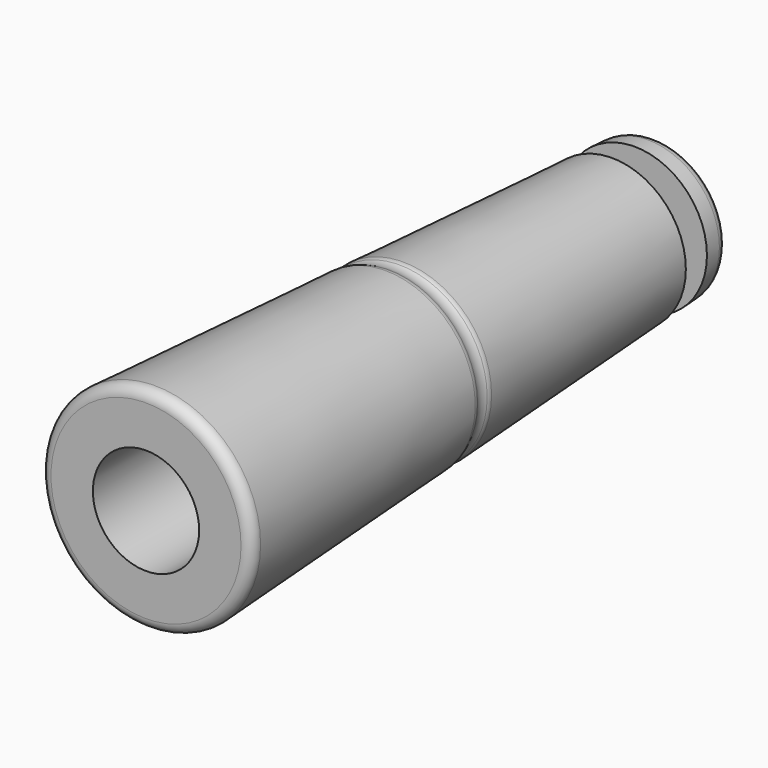
from build123d import *

# Parameters (mm, degrees)
F2_R     = 7.5
F3_DEPTH = 25


with BuildPart() as f1:
    # F0 (on Top) → F1 (revolve)
    with BuildSketch(Plane.XY):
        with BuildLine():
            Line((1.08102, 45), (-7.5, 45))
            Line((-7.5, 45), (-7.5, -45))
            Line((-7.5, -45), (5.914354, -45))
            ThreePointArc((5.914354, -45), (7.004034, -44.530823), (7.412044, -43.416795))
            Line((7.412044, -43.416795), (5.151078, -2.719401))
            ThreePointArc((5.151078, -2.719401), (5.097218, -2.395969), (4.974369, -2.091967))
            ThreePointArc((4.974369, -2.091967), (4.720026, -1.188882), (4.87277, -0.26318))
            ThreePointArc((4.87277, -0.26318), (4.961189, 0.052559), (4.978891, 0.379966))
            Line((4.978891, 0.379966), (2.932232, 37.219816))
            Line((2.932232, 37.219816), (-1.28999, 37.219816))
            Line((-1.28999, 37.219816), (-1.28999, 41.219816))
            Line((-1.28999, 41.219816), (2.71001, 41.219816))
            Line((2.71001, 41.219816), (2.578711, 43.583205))
            ThreePointArc((2.578711, 43.583205), (2.111843, 44.589681), (1.08102, 45))
        make_face()
    revolve(axis=Axis((-7.5, 0, 0), (0, -1, 0)))

    # F2 (on face) → F3 (cut)
    with BuildSketch(Plane.XZ.offset(45)):
        with Locations((-7.5, 0)):
            Circle(F2_R)
    extrude(amount=-F3_DEPTH, mode=Mode.SUBTRACT)


solid = f1.part
